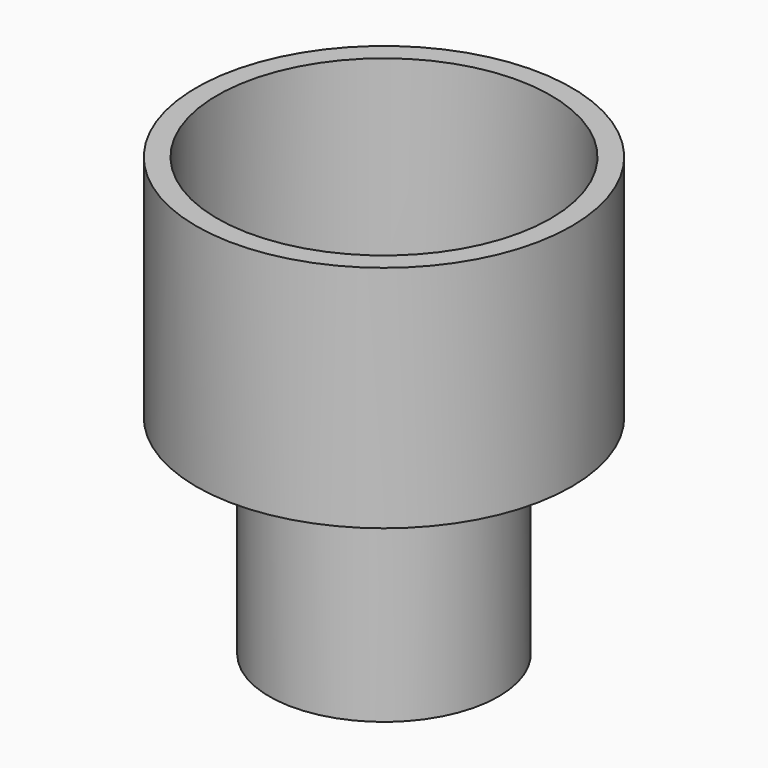
from build123d import *

# Parameters (mm, degrees)
F0_R     = 34.925
F1_DEPTH = 63.5
F2_R     = 57.15
F2_R_2   = 34.925
F3_DEPTH = 6.35
F4_R     = 57.15
F4_R_2   = 50.8
F5_DEPTH = 63.5


with BuildPart() as f1:
    # F0 (on Top) → F1 (new body)
    with BuildSketch(Plane.XY):
        Circle(F0_R)
    extrude(amount=F1_DEPTH)

    # F2 (on face) → F3 (join)
    with BuildSketch(Plane.XY.offset(63.5)):
        Circle(F2_R)
        Circle(F2_R_2, mode=Mode.SUBTRACT)
        Circle(F2_R_2)
    extrude(amount=F3_DEPTH)

    # F4 (on face) → F5 (join)
    with BuildSketch(Plane.XY.offset(69.85)):
        Circle(F4_R)
        Circle(F4_R_2, mode=Mode.SUBTRACT)
    extrude(amount=F5_DEPTH)


solid = f1.part
